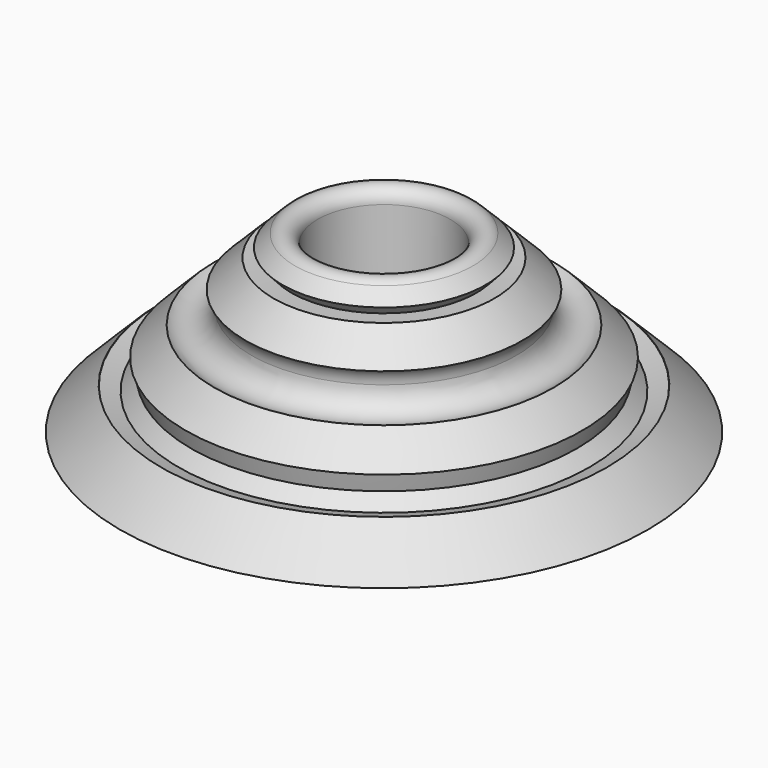
from build123d import *

# Parameters (mm, degrees)
F2_R = 10


with BuildPart() as f1:
    # F0 (on Front) → F1 (revolve)
    with BuildSketch(Plane.XZ):
        with BuildLine():
            Line((-119.4852813742, 0), (-30, 0))
            Line((-30, 0), (-30, 75))
            ThreePointArc((-30, 75), (-33.7038994058, 80.5432771951), (-40.2426406871, 79.2426406871))
            Line((-40.2426406871, 79.2426406871), (-119.4852813742, 0))
        make_face()
    revolve(axis=Axis((0, 0, 44.6021817625), (0, 0, 1)))

    # F2 (on Front) → F3 (revolve, cut)
    with BuildSketch(Plane.XZ):
        with Locations((-70, 50)):
            Circle(F2_R)
    revolve(axis=Axis((0, 0, 44.2256368697), (0, 0, 1)), mode=Mode.SUBTRACT)

    # F4 (on Front) → F5 (revolve, cut)
    with BuildSketch(Plane.XZ):
        Polygon((-93.070267659, 16.2951581671), (-87.3115113074, 21.84824067), (-89.2412436485, 29.6120112161), (-96.929732341, 31.8226992593), (-102.6884886926, 26.2696167564), (-100.7587563515, 18.5058462103), align=None)
    revolve(axis=Axis((0, 0, 44.7207018733), (0, 0, 1)), mode=Mode.SUBTRACT)

    # F6 (on Front) → F7 (revolve, cut)
    with BuildSketch(Plane.XZ):
        Polygon((-50.2399520095, 78.2016961205), (-50.6398090678, 69.5098518968), (-41.9479648441, 69.1099948385), align=None)
    revolve(axis=Axis((0, 0, 44.9002496898), (0, 0, 1)), mode=Mode.SUBTRACT)


solid = f1.part
